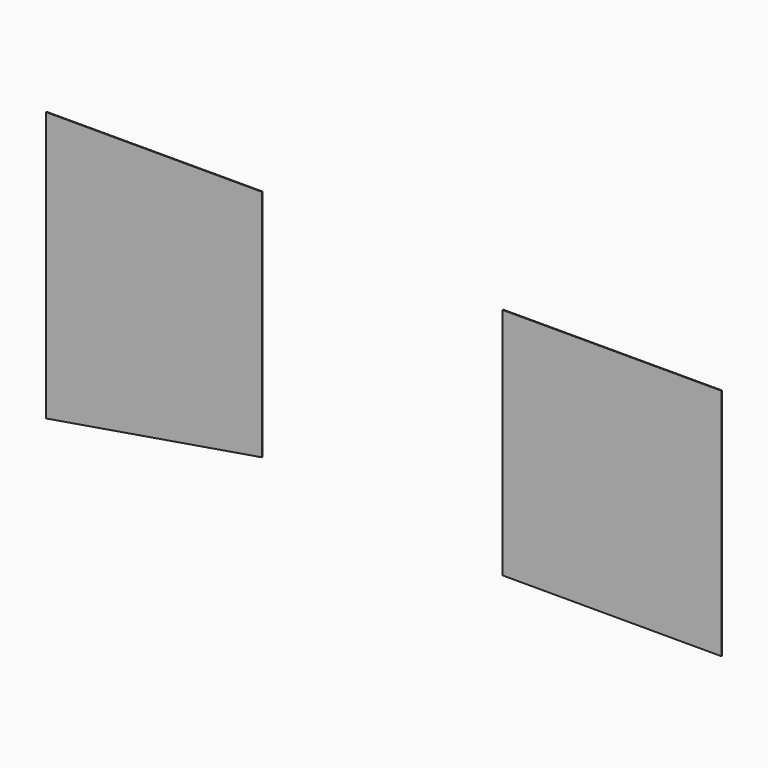
from build123d import *

# Parameters (mm, degrees)
F1_DEPTH = 4
F0_W     = 1216.553
F0_H     = 1300
F2_DEPTH = 4


with BuildPart() as f1:
    # F0 (on Front) → F1 (new body)
    with BuildSketch(Plane.XZ):
        Polygon((410.897925, 913.9211), (-789.102075, 913.9211), (-789.102075, -586.0789), (410.897925, -386.0789), align=None)
    extrude(amount=F1_DEPTH)


with BuildPart() as f2:
    # F0 (on Front) → F2 (new body)
    with BuildSketch(Plane.XZ):
        with Locations((2358.361139, 121.087813)):
            Rectangle(F0_W, F0_H)
    extrude(amount=F2_DEPTH)


solid = Compound([f1.part, f2.part])
